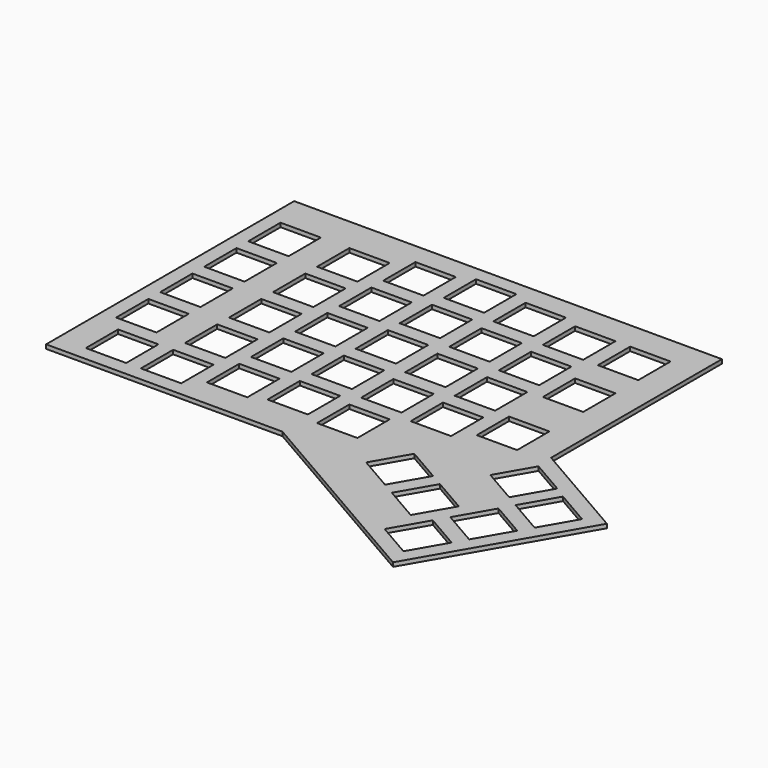
from build123d import *

# Parameters (mm, degrees)
SKETCH003_W      = 14
SKETCH003_H      = 14.001
SKETCH003_H_2    = 14
EXTRUDE_DEPTH    = 1.4
EXTRUDE001_DEPTH = 1.4


with BuildPart() as extrude_body:
    # Sketch003 → Extrude (new body)
    with BuildSketch(Plane.XY):
        Polygon((2.325, 2.45), (2.325, -105.113), (84.311707, -105.113), (155.56991, -146.253943), (186.670331, -92.386435), (150.699563, -71.618703), (150.699563, 2.45), align=None)
        with Locations((14.325, -16.7125)):
            Rectangle(SKETCH003_W, SKETCH003_H, mode=Mode.SUBTRACT)
        with Locations((38.2, -16.7125)):
            Rectangle(SKETCH003_W, SKETCH003_H, mode=Mode.SUBTRACT)
        with Locations((57.3, -11.938)):
            Rectangle(SKETCH003_W, SKETCH003_H_2, mode=Mode.SUBTRACT)
        with Locations((76.4, -9.55)):
            Rectangle(SKETCH003_W, SKETCH003_H_2, mode=Mode.SUBTRACT)
        with Locations((95.5, -11.938)):
            Rectangle(SKETCH003_W, SKETCH003_H_2, mode=Mode.SUBTRACT)
        with Locations((114.6, -14.325)):
            Rectangle(SKETCH003_W, SKETCH003_H_2, mode=Mode.SUBTRACT)
        with Locations((133.7, -14.325)):
            Rectangle(SKETCH003_W, SKETCH003_H_2, mode=Mode.SUBTRACT)
        with Locations((133.7, -38.2)):
            Rectangle(SKETCH003_W, SKETCH003_H_2, mode=Mode.SUBTRACT)
        with Locations((114.6, -33.425)):
            Rectangle(SKETCH003_W, SKETCH003_H_2, mode=Mode.SUBTRACT)
        with Locations((95.5, -31.038)):
            Rectangle(SKETCH003_W, SKETCH003_H_2, mode=Mode.SUBTRACT)
        with Locations((76.4, -28.65)):
            Rectangle(SKETCH003_W, SKETCH003_H_2, mode=Mode.SUBTRACT)
        with Locations((57.3, -31.038)):
            Rectangle(SKETCH003_W, SKETCH003_H_2, mode=Mode.SUBTRACT)
        with Locations((38.2, -35.813)):
            Rectangle(SKETCH003_W, SKETCH003_H_2, mode=Mode.SUBTRACT)
        with Locations((14.325, -35.813)):
            Rectangle(SKETCH003_W, SKETCH003_H_2, mode=Mode.SUBTRACT)
        with Locations((14.325, -54.913)):
            Rectangle(SKETCH003_W, SKETCH003_H_2, mode=Mode.SUBTRACT)
        with Locations((38.2, -54.913)):
            Rectangle(SKETCH003_W, SKETCH003_H_2, mode=Mode.SUBTRACT)
        with Locations((57.3, -50.138)):
            Rectangle(SKETCH003_W, SKETCH003_H_2, mode=Mode.SUBTRACT)
        with Locations((76.4, -47.75)):
            Rectangle(SKETCH003_W, SKETCH003_H_2, mode=Mode.SUBTRACT)
        with Locations((95.5, -50.138)):
            Rectangle(SKETCH003_W, SKETCH003_H_2, mode=Mode.SUBTRACT)
        with Locations((114.6, -52.525)):
            Rectangle(SKETCH003_W, SKETCH003_H_2, mode=Mode.SUBTRACT)
        with Locations((133.7, -66.85)):
            Rectangle(SKETCH003_W, SKETCH003_H_2, mode=Mode.SUBTRACT)
        with Locations((114.6, -71.625)):
            Rectangle(SKETCH003_W, SKETCH003_H_2, mode=Mode.SUBTRACT)
        with Locations((95.5, -69.238)):
            Rectangle(SKETCH003_W, SKETCH003_H_2, mode=Mode.SUBTRACT)
        with Locations((76.4, -66.85)):
            Rectangle(SKETCH003_W, SKETCH003_H_2, mode=Mode.SUBTRACT)
        with Locations((57.3, -69.238)):
            Rectangle(SKETCH003_W, SKETCH003_H_2, mode=Mode.SUBTRACT)
        with Locations((38.2, -74.013)):
            Rectangle(SKETCH003_W, SKETCH003_H_2, mode=Mode.SUBTRACT)
        with Locations((14.325, -74.013)):
            Rectangle(SKETCH003_W, SKETCH003_H_2, mode=Mode.SUBTRACT)
        with Locations((19.1, -93.113)):
            Rectangle(SKETCH003_W, SKETCH003_H_2, mode=Mode.SUBTRACT)
        with Locations((38.2, -93.113)):
            Rectangle(SKETCH003_W, SKETCH003_H_2, mode=Mode.SUBTRACT)
        with Locations((57.3, -88.338)):
            Rectangle(SKETCH003_W, SKETCH003_H_2, mode=Mode.SUBTRACT)
        with Locations((76.4, -85.95)):
            Rectangle(SKETCH003_W, SKETCH003_H_2, mode=Mode.SUBTRACT)
        with Locations((95.5, -88.338)):
            Rectangle(SKETCH003_W, SKETCH003_H_2, mode=Mode.SUBTRACT)
        Polygon((151.184685, -77.672291), (144.184124, -89.797618), (156.298938, -96.792109), (163.299499, -84.666782), align=None, mode=Mode.SUBTRACT)
        Polygon((167.447542, -87.384167), (160.545577, -99.338723), (172.833733, -106.433293), (179.735698, -94.478738), align=None, mode=Mode.SUBTRACT)
        Polygon((158.16619, -103.758315), (151.166, -115.883), (163.28981, -122.882685), (170.29, -110.758), align=None, mode=Mode.SUBTRACT)
        Polygon((148.616, -120.299205), (141.615747, -132.424), (153.739747, -139.423795), (160.74, -127.299), align=None, mode=Mode.SUBTRACT)
        Polygon((136.849219, -102.479127), (129.849425, -114.603126), (141.974, -121.603253), (148.973795, -109.479253), align=None, mode=Mode.SUBTRACT)
        Polygon((120.308, -92.929), (113.308315, -105.05281), (125.433, -112.053), (132.432685, -99.92919), align=None, mode=Mode.SUBTRACT)
    extrude(amount=EXTRUDE_DEPTH)


with BuildPart() as extrude001:
    # Sketch003 → Extrude001 (new body)
    with BuildSketch(Plane.XY):
        Polygon((2.325, 2.45), (2.325, -105.113), (84.311707, -105.113), (155.56991, -146.253943), (186.670331, -92.386435), (150.699563, -71.618703), (150.699563, 2.45), align=None)
        with Locations((14.325, -16.7125)):
            Rectangle(SKETCH003_W, SKETCH003_H, mode=Mode.SUBTRACT)
        with Locations((38.2, -16.7125)):
            Rectangle(SKETCH003_W, SKETCH003_H, mode=Mode.SUBTRACT)
        with Locations((57.3, -11.938)):
            Rectangle(SKETCH003_W, SKETCH003_H_2, mode=Mode.SUBTRACT)
        with Locations((76.4, -9.55)):
            Rectangle(SKETCH003_W, SKETCH003_H_2, mode=Mode.SUBTRACT)
        with Locations((95.5, -11.938)):
            Rectangle(SKETCH003_W, SKETCH003_H_2, mode=Mode.SUBTRACT)
        with Locations((114.6, -14.325)):
            Rectangle(SKETCH003_W, SKETCH003_H_2, mode=Mode.SUBTRACT)
        with Locations((133.7, -14.325)):
            Rectangle(SKETCH003_W, SKETCH003_H_2, mode=Mode.SUBTRACT)
        with Locations((133.7, -38.2)):
            Rectangle(SKETCH003_W, SKETCH003_H_2, mode=Mode.SUBTRACT)
        with Locations((114.6, -33.425)):
            Rectangle(SKETCH003_W, SKETCH003_H_2, mode=Mode.SUBTRACT)
        with Locations((95.5, -31.038)):
            Rectangle(SKETCH003_W, SKETCH003_H_2, mode=Mode.SUBTRACT)
        with Locations((76.4, -28.65)):
            Rectangle(SKETCH003_W, SKETCH003_H_2, mode=Mode.SUBTRACT)
        with Locations((57.3, -31.038)):
            Rectangle(SKETCH003_W, SKETCH003_H_2, mode=Mode.SUBTRACT)
        with Locations((38.2, -35.813)):
            Rectangle(SKETCH003_W, SKETCH003_H_2, mode=Mode.SUBTRACT)
        with Locations((14.325, -35.813)):
            Rectangle(SKETCH003_W, SKETCH003_H_2, mode=Mode.SUBTRACT)
        with Locations((14.325, -54.913)):
            Rectangle(SKETCH003_W, SKETCH003_H_2, mode=Mode.SUBTRACT)
        with Locations((38.2, -54.913)):
            Rectangle(SKETCH003_W, SKETCH003_H_2, mode=Mode.SUBTRACT)
        with Locations((57.3, -50.138)):
            Rectangle(SKETCH003_W, SKETCH003_H_2, mode=Mode.SUBTRACT)
        with Locations((76.4, -47.75)):
            Rectangle(SKETCH003_W, SKETCH003_H_2, mode=Mode.SUBTRACT)
        with Locations((95.5, -50.138)):
            Rectangle(SKETCH003_W, SKETCH003_H_2, mode=Mode.SUBTRACT)
        with Locations((114.6, -52.525)):
            Rectangle(SKETCH003_W, SKETCH003_H_2, mode=Mode.SUBTRACT)
        with Locations((133.7, -66.85)):
            Rectangle(SKETCH003_W, SKETCH003_H_2, mode=Mode.SUBTRACT)
        with Locations((114.6, -71.625)):
            Rectangle(SKETCH003_W, SKETCH003_H_2, mode=Mode.SUBTRACT)
        with Locations((95.5, -69.238)):
            Rectangle(SKETCH003_W, SKETCH003_H_2, mode=Mode.SUBTRACT)
        with Locations((76.4, -66.85)):
            Rectangle(SKETCH003_W, SKETCH003_H_2, mode=Mode.SUBTRACT)
        with Locations((57.3, -69.238)):
            Rectangle(SKETCH003_W, SKETCH003_H_2, mode=Mode.SUBTRACT)
        with Locations((38.2, -74.013)):
            Rectangle(SKETCH003_W, SKETCH003_H_2, mode=Mode.SUBTRACT)
        with Locations((14.325, -74.013)):
            Rectangle(SKETCH003_W, SKETCH003_H_2, mode=Mode.SUBTRACT)
        with Locations((19.1, -93.113)):
            Rectangle(SKETCH003_W, SKETCH003_H_2, mode=Mode.SUBTRACT)
        with Locations((38.2, -93.113)):
            Rectangle(SKETCH003_W, SKETCH003_H_2, mode=Mode.SUBTRACT)
        with Locations((57.3, -88.338)):
            Rectangle(SKETCH003_W, SKETCH003_H_2, mode=Mode.SUBTRACT)
        with Locations((76.4, -85.95)):
            Rectangle(SKETCH003_W, SKETCH003_H_2, mode=Mode.SUBTRACT)
        with Locations((95.5, -88.338)):
            Rectangle(SKETCH003_W, SKETCH003_H_2, mode=Mode.SUBTRACT)
        Polygon((151.184685, -77.672291), (144.184124, -89.797618), (156.298938, -96.792109), (163.299499, -84.666782), align=None, mode=Mode.SUBTRACT)
        Polygon((167.447542, -87.384167), (160.545577, -99.338723), (172.833733, -106.433293), (179.735698, -94.478738), align=None, mode=Mode.SUBTRACT)
        Polygon((158.16619, -103.758315), (151.166, -115.883), (163.28981, -122.882685), (170.29, -110.758), align=None, mode=Mode.SUBTRACT)
        Polygon((148.616, -120.299205), (141.615747, -132.424), (153.739747, -139.423795), (160.74, -127.299), align=None, mode=Mode.SUBTRACT)
        Polygon((136.849219, -102.479127), (129.849425, -114.603126), (141.974, -121.603253), (148.973795, -109.479253), align=None, mode=Mode.SUBTRACT)
        Polygon((120.308, -92.929), (113.308315, -105.05281), (125.433, -112.053), (132.432685, -99.92919), align=None, mode=Mode.SUBTRACT)
    extrude(amount=EXTRUDE001_DEPTH)


solid = Compound([extrude_body.part, extrude001.part])
